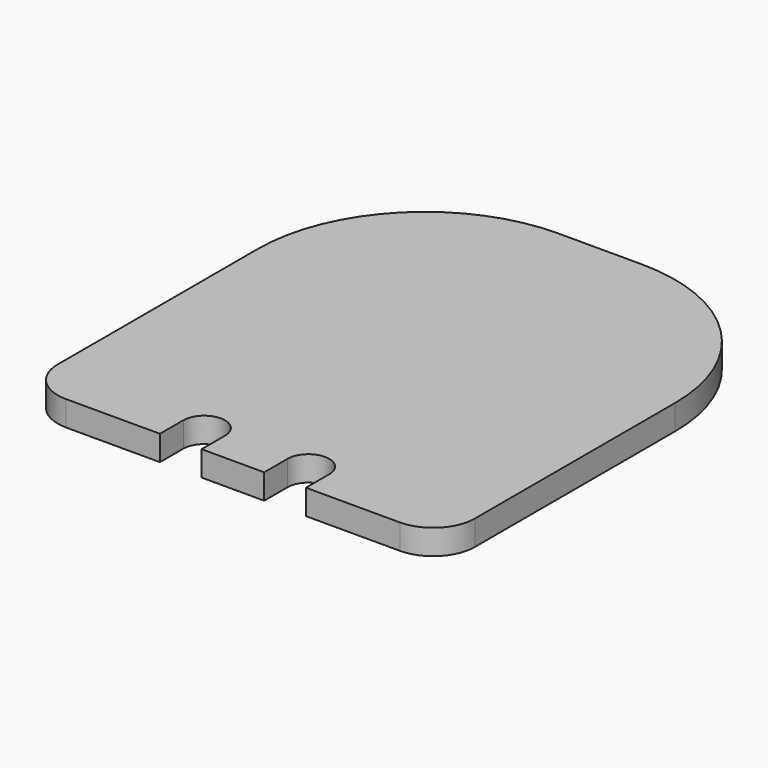
from build123d import *

# Parameters (mm, degrees)
F1_DEPTH = 3


with BuildPart() as f1:
    # F0 (on Top) → F1 (new body)
    with BuildSketch(Plane.XY):
        with BuildLine():
            Line((5, 27.5), (-5, 27.5))
            ThreePointArc((-5, 27.5), (-19.142136, 21.642136), (-25, 7.5))
            Line((-25, 7.5), (-25, -22.5))
            ThreePointArc((-25, -22.5), (-23.535534, -26.035534), (-20, -27.5))
            Line((-20, -27.5), (-8.75, -27.5))
            Line((-8.75, -27.5), (-8.75, -24))
            ThreePointArc((-8.75, -24), (-6.25, -21.5), (-3.75, -24))
            Line((-3.75, -24), (-3.75, -27.5))
            Line((-3.75, -27.5), (3.75, -27.5))
            Line((3.75, -27.5), (3.75, -24))
            ThreePointArc((3.75, -24), (6.25, -21.5), (8.75, -24))
            Line((8.75, -24), (8.75, -27.5))
            Line((8.75, -27.5), (20, -27.5))
            ThreePointArc((20, -27.5), (23.535534, -26.035534), (25, -22.5))
            Line((25, -22.5), (25, 7.5))
            ThreePointArc((25, 7.5), (19.142136, 21.642136), (5, 27.5))
        make_face()
    extrude(amount=F1_DEPTH)


solid = f1.part
